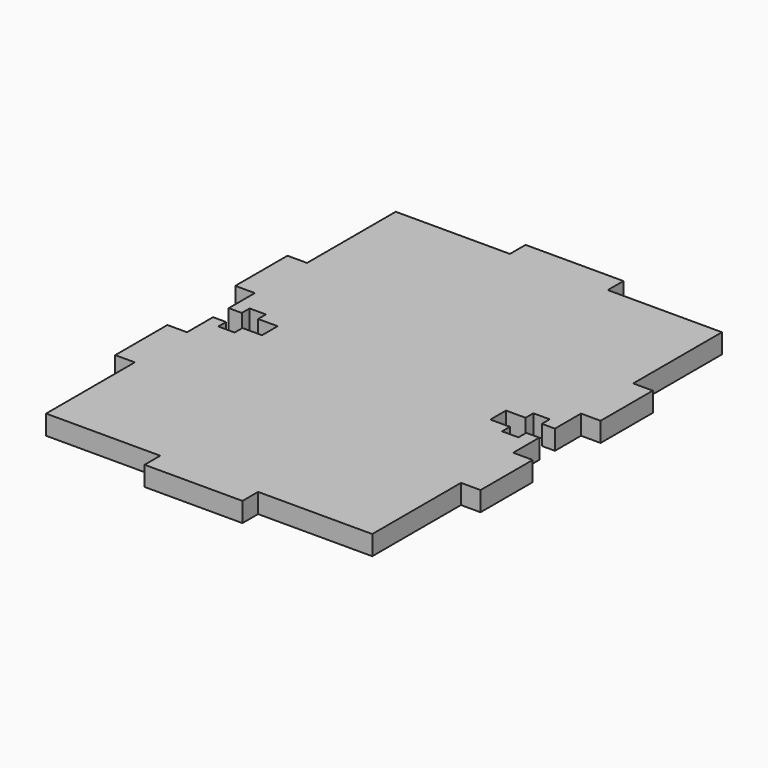
from build123d import *

# Parameters (mm, degrees)
F1_DEPTH = 3


with BuildPart() as f1:
    # F0 (on Top) → F1 (new body)
    with BuildSketch(Plane.XY):
        Polygon((-75.961965, -6.617957), (-93.461965, -6.617957), (-93.461965, -23.617957), (-96.461965, -23.617957), (-96.461965, -33.617957), (-93.461965, -33.617957), (-93.461965, -38.617957), (-91.461965, -38.617957), (-91.461965, -37.117957), (-88.961965, -37.117957), (-88.961965, -38.617957), (-85.961965, -38.617957), (-85.961965, -41.617957), (-88.961965, -41.617957), (-88.961965, -43.117957), (-91.461965, -43.117957), (-91.461965, -41.617957), (-93.461965, -41.617957), (-93.461965, -46.617957), (-96.461965, -46.617957), (-96.461965, -56.617957), (-93.461965, -56.617957), (-93.461965, -73.617957), (-75.961965, -73.617957), (-75.961965, -76.617957), (-60.961965, -76.617957), (-60.961965, -73.617957), (-43.461965, -73.617957), (-43.461965, -56.617957), (-40.461965, -56.617957), (-40.461965, -46.617957), (-43.461965, -46.617957), (-43.461965, -41.617957), (-45.461965, -41.617957), (-45.461965, -43.117957), (-47.961965, -43.117957), (-47.961965, -41.617957), (-50.961965, -41.617957), (-50.961965, -38.617957), (-47.961965, -38.617957), (-47.961965, -37.117957), (-45.461965, -37.117957), (-45.461965, -38.617957), (-43.461965, -38.617957), (-43.461965, -33.617957), (-40.461965, -33.617957), (-40.461965, -23.617957), (-43.461965, -23.617957), (-43.461965, -6.617957), (-60.961965, -6.617957), (-60.961965, -3.617957), (-75.961965, -3.617957), align=None)
    extrude(amount=F1_DEPTH)


solid = f1.part
